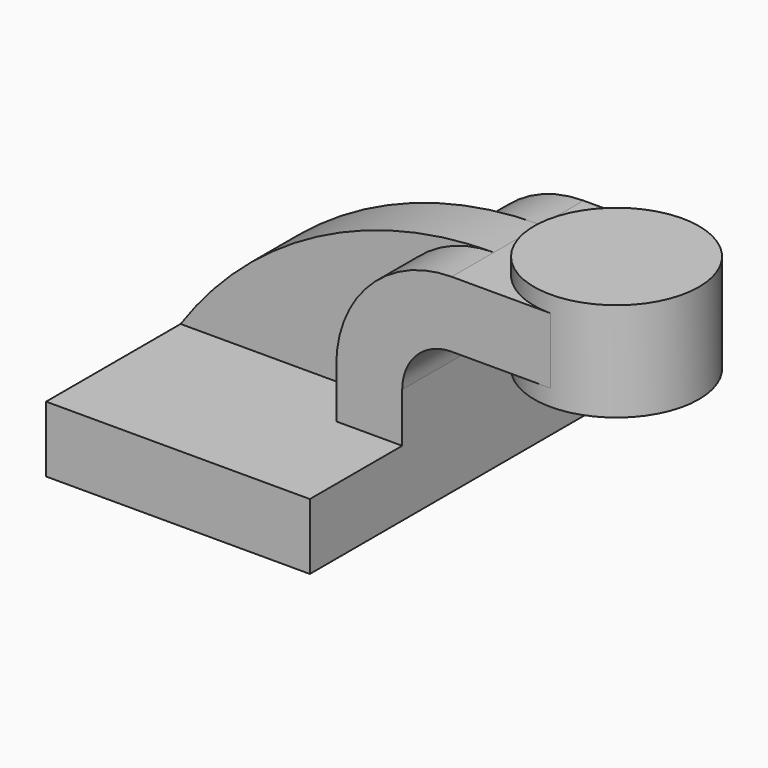
from build123d import *

# Parameters (mm, degrees)
F1_DEPTH = 60
F2_DEPTH = 25
F3_DEPTH = 9


with BuildPart() as f1:
    # F0 (on Front) → F1 (new body, symmetric)
    with BuildSketch(Plane.XZ):
        Polygon((0, 20), (0, 0), (80, 0), (80, 20), (60, 20), align=None)
    extrude(amount=F1_DEPTH, both=True)

    # F0 (on Front) → F2 (join, symmetric)
    with BuildSketch(Plane.XZ):
        with BuildLine():
            Line((60, 20), (80, 20))
            Line((80, 20), (80, 35))
            ThreePointArc((80, 35), (84.393398, 45.606602), (95, 50))
            Line((95, 50), (100, 50))
            Line((100, 50), (125, 50))
            Line((125, 50), (125, 70))
            Line((125, 70), (100, 70))
            Line((100, 70), (95, 70))
            ThreePointArc((95, 70), (70.251263, 59.748737), (60, 35))
            Line((60, 35), (60, 20))
        make_face()
    extrude(amount=F2_DEPTH, both=True)

    # F0 (on Front) → F3 (join, symmetric)
    with BuildSketch(Plane.XZ):
        with BuildLine():
            ThreePointArc((95, 70), (41.322724, 56.736825), (0, 20))
            Line((0, 20), (60, 20))
            Line((60, 20), (60, 35))
            ThreePointArc((60, 35), (70.251263, 59.748737), (95, 70))
        make_face()
    extrude(amount=F3_DEPTH, both=True)

    # F0 (on Front) → F4 (revolve)
    with BuildSketch(Plane.XZ):
        Polygon((125, 75), (125, 70), (125, 50), (125, 45), (150, 45), (150, 75), align=None)
    revolve(axis=Axis((125, 0, 60), (0, 0, -1)))


solid = f1.part
